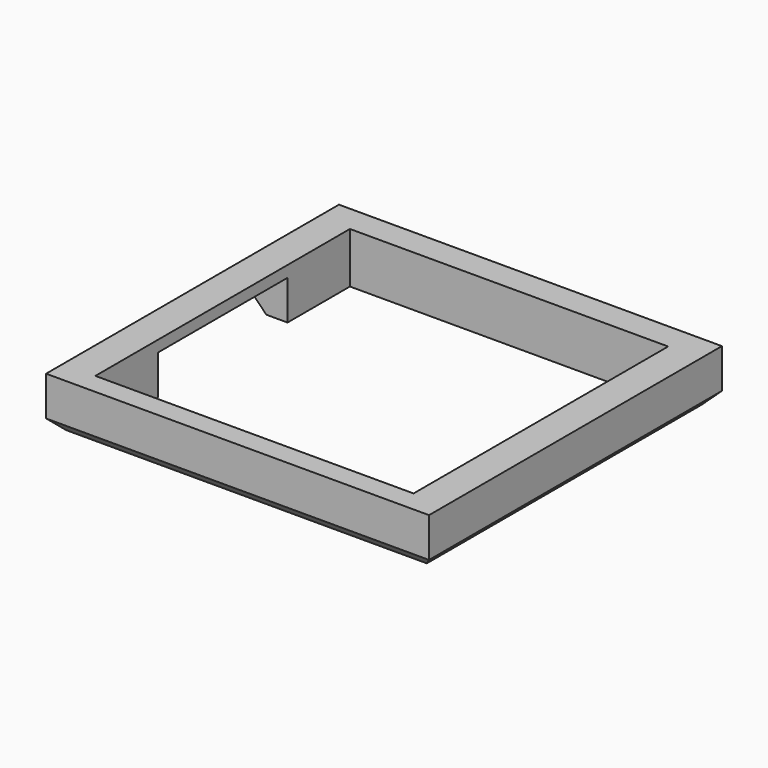
from build123d import *

# Parameters (mm, degrees)
BOX331_W                    = 28.8
BOX331_H                    = 43.38
BOX331_DEPTH                = 20
BOX325_W                    = 56.5
BOX325_H                    = 56.5
BOX325_DEPTH                = 40
BOX327_W                    = 65
BOX327_H                    = 68
BOX327_DEPTH                = 9
COMPOUND928_ROLL_ANGLE      = 180
COMPOUND928_PLACEMENT_ANGLE = -90
CHAMFER013_SIZE             = 2


with BuildPart() as krychle331:
    # Box331 → Box331 (new body)
    with BuildSketch(Plane(origin=(-14.4, -8, 34), x_dir=(1, 0, 0), z_dir=(0, 0, 1))):
        with Locations((14.4, 21.69)):
            Rectangle(BOX331_W, BOX331_H)
    extrude(amount=BOX331_DEPTH)


with BuildPart() as krychle325:
    # Box325 → Box325 (new body)
    with BuildSketch(Plane(origin=(-28.25, -28.25, 32), x_dir=(1, 0, 0), z_dir=(0, 0, 1))):
        with Locations((28.25, 28.25)):
            Rectangle(BOX325_W, BOX325_H)
    extrude(amount=BOX325_DEPTH)


with BuildPart() as chamfer013:
    # Box327 → Box327 (new body)
    with BuildSketch(Plane(origin=(-33, -34, 32), x_dir=(1, 0, 0), z_dir=(0, 0, 1))):
        with Locations((32.5, 34)):
            Rectangle(BOX327_W, BOX327_H)
    extrude(amount=BOX327_DEPTH)

    # Cut313: cut Krychle325
    add(krychle325.part, mode=Mode.SUBTRACT)

    # Cut316: cut Krychle331
    add(krychle331.part, mode=Mode.SUBTRACT)


with BuildPart() as chamfer013_1:
    # Cut316 placement: moved
    add(chamfer013.part.moved(Location((-29, 18, 30))))


with BuildPart() as chamfer013_2:
    # Compound928 roll: moved
    add(chamfer013_1.part.rotate(Axis((0, 0, 0), (1, 0, 0)), COMPOUND928_ROLL_ANGLE))


with BuildPart() as chamfer013_3:
    # Compound928 placement: moved
    add(chamfer013_2.part.moved(Location((18, -29, 32))).rotate(Axis((18, -29, 32), (0, 0, 1)), COMPOUND928_PLACEMENT_ANGLE))

    # Chamfer013
    chamfer013_edges = [chamfer013_3.edges().sort_by_distance(p)[0] for p in [
        (0, 33, -39),
        (34, 0.5, -39),
        (-34, 23.7, -39),
        (-34, -23.2, -39),
        (0, -32, -39),
    ]]
    chamfer(chamfer013_edges, length=CHAMFER013_SIZE)


solid = chamfer013_3.part
